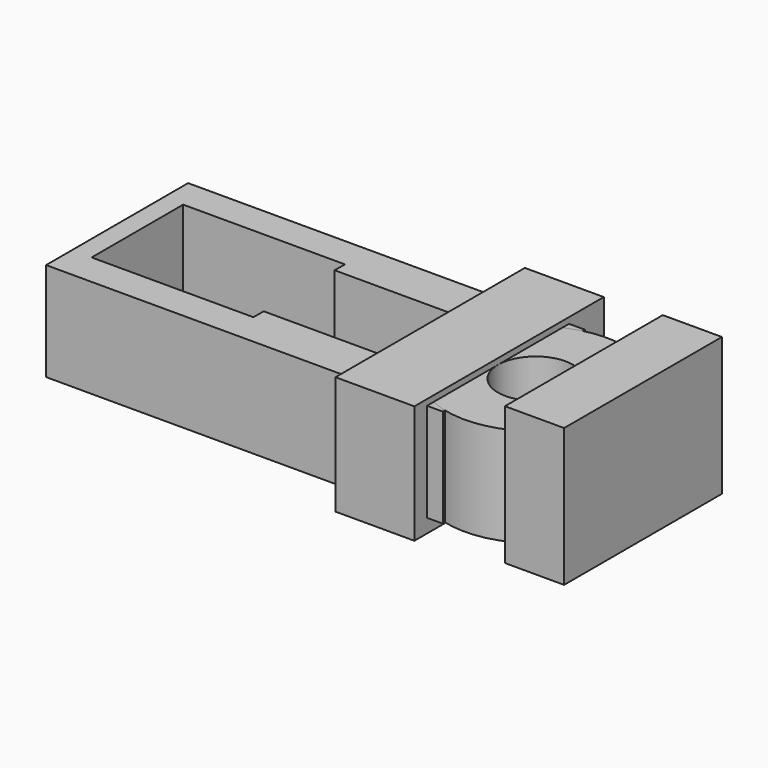
from build123d import *

# Parameters (mm, degrees)
BOX004_W         = 68.15
BOX004_H         = 15
BOX004_DEPTH     = 50
BOX005_W         = 68.15
BOX005_H         = 15
BOX005_DEPTH     = 50
BOX006_W         = 40
BOX006_H         = 120
BOX006_DEPTH     = 60
BOX008_W         = 30
BOX008_H         = 100
BOX008_DEPTH     = 70
BOX001_W         = 82
BOX001_H         = 58
BOX001_DEPTH     = 44.4
BOX007_W         = 5
BOX007_H         = 5
BOX007_DEPTH     = 44.4
SKETCH001_R      = 5
EXTRUDE001_DEPTH = 4
EXTRUDE002_DEPTH = 15
SKETCH_R         = 12.3
EXTRUDE_DEPTH    = 5
BOX_W            = 75.7
BOX_H            = 45
BOX_DEPTH        = 44.4
BOX002_W         = 175
BOX002_H         = 90
BOX002_DEPTH     = 50
TUBE_R           = 45
TUBE_R_2         = 19.07
TUBE_DEPTH       = 50


with BuildPart() as cube004:
    # Box004 → Box004 (new body)
    with BuildSketch(Plane(origin=(41, -26, -10), x_dir=(1, 0, 0), z_dir=(0, 0, 1))):
        with Locations((34.075, 7.5)):
            Rectangle(BOX004_W, BOX004_H)
    extrude(amount=BOX004_DEPTH)


with BuildPart() as cube005:
    # Box005 → Box005 (new body)
    with BuildSketch(Plane(origin=(41, 49, -10), x_dir=(1, 0, 0), z_dir=(0, 0, 1))):
        with Locations((34.075, 7.5)):
            Rectangle(BOX005_W, BOX005_H)
    extrude(amount=BOX005_DEPTH)


with BuildPart() as obj1:
    # Box006 → Box006 (new body)
    with BuildSketch(Plane(origin=(61.1, -34, -17), x_dir=(1, 0, 0), z_dir=(0, 0, 1))):
        with Locations((20, 60)):
            Rectangle(BOX006_W, BOX006_H)
    extrude(amount=BOX006_DEPTH)


with BuildPart() as steeringshaftcutter:
    # Box008 → Box008 (new body)
    with BuildSketch(Plane(origin=(144.6, -31, -14), x_dir=(1, 0, 0), z_dir=(0, 0, 1))):
        with Locations((15, 50)):
            Rectangle(BOX008_W, BOX008_H)
    extrude(amount=BOX008_DEPTH)


with BuildPart() as motorhead:
    # Box001 → Box001 (new body)
    with BuildSketch(Plane(origin=(-82, -9.63, 0), x_dir=(1, 0, 0), z_dir=(0, 0, 1))):
        with Locations((41, 29)):
            Rectangle(BOX001_W, BOX001_H)
    extrude(amount=BOX001_DEPTH)


with BuildPart() as obj2:
    # Box007 → Box007 (new body)
    with BuildSketch(Plane(origin=(75.7, 16.87, 0), x_dir=(1, 0, 0), z_dir=(0, 0, 1))):
        with Locations((2.5, 2.5)):
            Rectangle(BOX007_W, BOX007_H)
    extrude(amount=BOX007_DEPTH)


with BuildPart() as obj3:
    # Sketch001 (on Face3 of Extrude) → Extrude001 (new body)
    with BuildSketch(Plane.XY.offset(49.4)):
        with Locations((-58.7, 20.37)):
            Circle(SKETCH001_R)
    extrude(amount=EXTRUDE001_DEPTH)


with BuildPart() as obj4:
    # Sketch002 (on Face3 of Extrude001) → Extrude002 (new body)
    with BuildSketch(Plane.XY.offset(53.4)):
        with BuildLine():
            Line((-62.7, 23.37), (-62.7, 17.37))
            ThreePointArc((-62.7, 17.37), (-53.7, 20.37), (-62.7, 23.37))
        make_face()
    extrude(amount=EXTRUDE002_DEPTH)


with BuildPart() as motorshaftassembly:
    # Sketch (on Face6 of Box001) → Extrude (new body)
    with BuildSketch(Plane(origin=(-82, -9.63, 44.4), x_dir=(1, 0, 0), z_dir=(0, 0, 1))):
        with Locations((23.3, 30)):
            Circle(SKETCH_R)
    extrude(amount=EXTRUDE_DEPTH)

    # Fusion: union obj3, obj4
    add(obj3.part)
    add(obj4.part)


with BuildPart() as motor:
    # Box → Box (new body)
    with BuildSketch(Plane(origin=(0, -3.13, 0), x_dir=(1, 0, 0), z_dir=(0, 0, 1))):
        with Locations((37.85, 22.5)):
            Rectangle(BOX_W, BOX_H)
    extrude(amount=BOX_DEPTH)

    # Fusion005: union MotorHead, obj2, MotorShaftAssembly
    add(motorhead.part)
    add(obj2.part)
    add(motorshaftassembly.part)


with BuildPart() as obj5:
    # Box002 → Box002 (new body)
    with BuildSketch(Plane(origin=(-92, -26, -10), x_dir=(1, 0, 0), z_dir=(0, 0, 1))):
        with Locations((87.5, 45)):
            Rectangle(BOX002_W, BOX002_H)
    extrude(amount=BOX002_DEPTH)

    # Cut: cut Motor
    add(motor.part, mode=Mode.SUBTRACT)


with BuildPart() as steeringshaftmount:
    # Tube → Tube (new body)
    with BuildSketch(Plane(origin=(120.15, 19, -10), x_dir=(1, 0, 0), z_dir=(0, 0, 1))):
        Circle(TUBE_R)
        Circle(TUBE_R_2, mode=Mode.SUBTRACT)
    extrude(amount=TUBE_DEPTH)


solid = Compound([cube004.part, cube005.part, obj1.part, steeringshaftcutter.part, obj5.part, steeringshaftmount.part])
